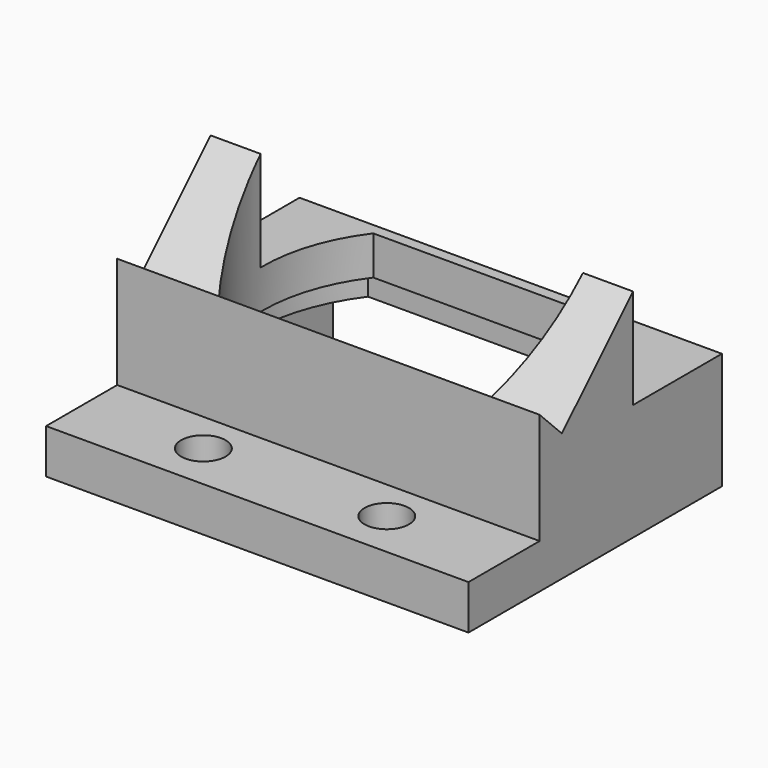
from build123d import *

# Parameters (mm, degrees)
F0_W      = 38
F0_H      = 28.5
F1_DEPTH  = 19.5
F2_W      = 8
F2_H      = 15.5
F4_DEPTH  = 38
F6_DEPTH  = 19.5
F3_W      = 10
F3_H      = 9
F7_DEPTH  = 38
F9_DEPTH  = 38
F11_DEPTH = 7
F12_W     = 32
F12_H     = 5
F13_DEPTH = 19
F14_R     = 2
F15_DEPTH = 4


with BuildPart() as f1:
    # F0 (on Top) → F1 (new body)
    with BuildSketch(Plane.XY):
        with Locations((3.113019, 14.25)):
            Rectangle(F0_W, F0_H)
    extrude(amount=F1_DEPTH)

    # F2 (on face) → F4 (cut)
    with BuildSketch(Plane.YZ.offset(22.113019)):
        with Locations((4, 11.75)):
            Rectangle(F2_W, F2_H)
    extrude(amount=-F4_DEPTH, mode=Mode.SUBTRACT)

    # F5 (on face) → F6 (cut)
    with BuildSketch(Plane.XY.offset(19.5)):
        with BuildLine():
            ThreePointArc((-8.449312, 27.5), (-11.386981, 18.75), (-8.449312, 10))
            Line((-8.449312, 10), (14.67535, 10))
            ThreePointArc((14.67535, 10), (17.613019, 18.75), (14.67535, 27.5))
            Line((14.67535, 27.5), (-8.449312, 27.5))
        make_face()
    extrude(amount=-F6_DEPTH, mode=Mode.SUBTRACT)

    # F3 (on face) → F7 (cut)
    with BuildSketch(Plane.YZ.offset(22.113019)):
        with Locations((23.5, 15)):
            Rectangle(F3_W, F3_H)
    extrude(amount=-F7_DEPTH, mode=Mode.SUBTRACT)

    # F8 (on face) → F9 (cut)
    with BuildSketch(Plane.YZ.offset(22.113019)):
        Polygon((18.5, 19.5), (8, 19.5), (8, 14), (10.5, 11.5), align=None)
    extrude(amount=-F9_DEPTH, mode=Mode.SUBTRACT)

    # F10 (on face) → F11 (cut)
    with BuildSketch(Plane(origin=(0, 0, 0), x_dir=(1, 0, 0), z_dir=(0, 0, -1))):
        with BuildLine():
            Line((15.550362, -9.5), (-9.324324, -9.5))
            ThreePointArc((-9.324324, -9.5), (-12.386981, -18.75), (-9.324324, -28))
            Line((-9.324324, -28), (15.550362, -28))
            ThreePointArc((15.550362, -28), (18.613019, -18.75), (15.550362, -9.5))
        make_face()
    extrude(amount=-F11_DEPTH, mode=Mode.SUBTRACT)

    # F12 (on face) → F13 (cut)
    with BuildSketch(Plane(origin=(0, 28.5, 0), x_dir=(-1, 0, 0), z_dir=(0, 1, 0))):
        with Locations((-3.113019, 2.5)):
            Rectangle(F12_W, F12_H)
    extrude(amount=-F13_DEPTH, mode=Mode.SUBTRACT)

    # F14 (on face) → F15 (cut)
    with BuildSketch(Plane.XY.offset(4)):
        with Locations((-5.136981, 4.25)):
            Circle(F14_R)
        with Locations((11.363019, 4.25)):
            Circle(F14_R)
    extrude(amount=-F15_DEPTH, mode=Mode.SUBTRACT)


solid = f1.part
